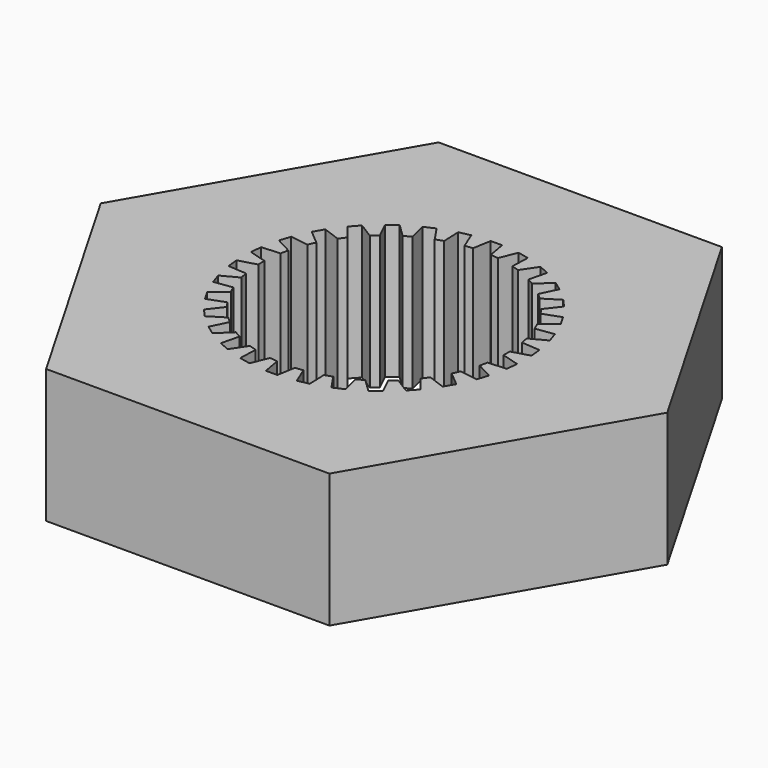
from build123d import *

# Parameters (mm, degrees)
F1_DEPTH = 3


with BuildPart() as f1:
    # F0 (on Top) → F1 (new body)
    with BuildSketch(Plane.XY):
        Polygon((3.175426, 5.5), (-3.175426, 5.5), (-6.350853, 0), (-3.175426, -5.5), (3.175426, -5.5), (6.350853, 0), align=None)
        with BuildLine():
            ThreePointArc((2.748598, 0.087788), (2.74965, 0.043899), (2.75, 0))
            ThreePointArc((2.75, 0), (2.749649, -0.043966), (2.748594, -0.08792))
            Line((2.748594, -0.08792), (3.146129, -0.201912))
            Line((3.146129, -0.201912), (3.119345, -0.456748))
            Line((3.119345, -0.456748), (2.706787, -0.485596))
            ThreePointArc((2.706787, -0.485596), (2.689892, -0.571822), (2.670251, -0.657464))
            Line((2.670251, -0.657464), (3.035399, -0.851616))
            Line((3.035399, -0.851616), (2.956217, -1.095315))
            Line((2.956217, -1.095315), (2.546676, -1.037758))
            ThreePointArc((2.546676, -1.037758), (2.512223, -1.118586), (2.475205, -1.198273))
            Line((2.475205, -1.198273), (2.792007, -1.464102))
            Line((2.792007, -1.464102), (2.663887, -1.686012))
            Line((2.663887, -1.686012), (2.275263, -1.544564))
            ThreePointArc((2.275263, -1.544564), (2.224758, -1.616463), (2.171981, -1.686712))
            Line((2.171981, -1.686712), (2.426591, -2.012598))
            Line((2.426591, -2.012598), (2.255134, -2.203022))
            Line((2.255134, -2.203022), (1.90441, -1.983865))
            ThreePointArc((1.90441, -1.983865), (1.84006, -2.043693), (1.773831, -2.101434))
            Line((1.773831, -2.101434), (1.955122, -2.473135))
            Line((1.955122, -2.473135), (1.74782, -2.623749))
            Line((1.74782, -2.623749), (1.450326, -2.336462))
            ThreePointArc((1.450326, -2.336462), (1.374943, -2.381603), (1.298156, -2.424313))
            Line((1.298156, -2.424313), (1.398204, -2.825584))
            Line((1.398204, -2.825584), (1.164117, -2.929806))
            Line((1.164117, -2.929806), (0.932855, -2.586945))
            ThreePointArc((0.932855, -2.586945), (0.849734, -2.615426), (0.765745, -2.641237))
            Line((0.765745, -2.641237), (0.780178, -3.054541))
            Line((0.780178, -3.054541), (0.529538, -3.107816))
            Line((0.529538, -3.107816), (0.374614, -2.724365))
            ThreePointArc((0.374614, -2.724365), (0.287387, -2.734942), (0.199868, -2.742727))
            Line((0.199868, -2.742727), (0.128055, -3.15))
            Line((0.128055, -3.15), (-0.128185, -3.15))
            Line((-0.128185, -3.15), (-0.2, -2.742718))
            ThreePointArc((-0.2, -2.742718), (-0.287519, -2.734928), (-0.374745, -2.724347))
            Line((-0.374745, -2.724347), (-0.529666, -3.107789))
            Line((-0.529666, -3.107789), (-0.780306, -3.054514))
            Line((-0.780306, -3.054514), (-0.765873, -2.6412))
            ThreePointArc((-0.765873, -2.6412), (-0.84986, -2.615385), (-0.932979, -2.5869))
            Line((-0.932979, -2.5869), (-1.164237, -2.929753))
            Line((-1.164237, -2.929753), (-1.398323, -2.825531))
            Line((-1.398323, -2.825531), (-1.298273, -2.42425))
            ThreePointArc((-1.298273, -2.42425), (-1.375057, -2.381537), (-1.450438, -2.336392))
            Line((-1.450438, -2.336392), (-1.747925, -2.623672))
            Line((-1.747925, -2.623672), (-1.955227, -2.473058))
            Line((-1.955227, -2.473058), (-1.773932, -2.101348))
            ThreePointArc((-1.773932, -2.101348), (-1.840158, -2.043604), (-1.904506, -1.983773))
            Line((-1.904506, -1.983773), (-2.255221, -2.202924))
            Line((-2.255221, -2.202924), (-2.426679, -2.012501))
            Line((-2.426679, -2.012501), (-2.172063, -1.686607))
            ThreePointArc((-2.172063, -1.686607), (-2.224836, -1.616356), (-2.275338, -1.544454))
            Line((-2.275338, -1.544454), (-2.663953, -1.685898))
            Line((-2.663953, -1.685898), (-2.792073, -1.463988))
            Line((-2.792073, -1.463988), (-2.475263, -1.198154))
            ThreePointArc((-2.475263, -1.198154), (-2.512277, -1.118465), (-2.546726, -1.037635))
            Line((-2.546726, -1.037635), (-2.956257, -1.095191))
            Line((-2.956257, -1.095191), (-3.035439, -0.851492))
            Line((-3.035439, -0.851492), (-2.670283, -0.657335))
            ThreePointArc((-2.670283, -0.657335), (-2.68992, -0.571692), (-2.70681, -0.485466))
            Line((-2.70681, -0.485466), (-3.119359, -0.456618))
            Line((-3.119359, -0.456618), (-3.146143, -0.201782))
            Line((-3.146143, -0.201782), (-2.748598, -0.087788))
            ThreePointArc((-2.748598, -0.087788), (-2.75, 6.6e-05), (-2.748594, 0.08792))
            Line((-2.748594, 0.08792), (-3.146129, 0.201912))
            Line((-3.146129, 0.201912), (-3.119345, 0.456748))
            Line((-3.119345, 0.456748), (-2.706787, 0.485596))
            ThreePointArc((-2.706787, 0.485596), (-2.689892, 0.571822), (-2.670251, 0.657464))
            Line((-2.670251, 0.657464), (-3.035399, 0.851616))
            Line((-3.035399, 0.851616), (-2.956217, 1.095315))
            Line((-2.956217, 1.095315), (-2.546676, 1.037758))
            ThreePointArc((-2.546676, 1.037758), (-2.512223, 1.118586), (-2.475205, 1.198273))
            Line((-2.475205, 1.198273), (-2.792007, 1.464102))
            Line((-2.792007, 1.464102), (-2.663887, 1.686012))
            Line((-2.663887, 1.686012), (-2.275263, 1.544564))
            ThreePointArc((-2.275263, 1.544564), (-2.224758, 1.616463), (-2.171981, 1.686712))
            Line((-2.171981, 1.686712), (-2.426591, 2.012598))
            Line((-2.426591, 2.012598), (-2.255134, 2.203022))
            Line((-2.255134, 2.203022), (-1.90441, 1.983865))
            ThreePointArc((-1.90441, 1.983865), (-1.84006, 2.043693), (-1.773831, 2.101434))
            Line((-1.773831, 2.101434), (-1.955122, 2.473135))
            Line((-1.955122, 2.473135), (-1.74782, 2.623749))
            Line((-1.74782, 2.623749), (-1.450326, 2.336462))
            ThreePointArc((-1.450326, 2.336462), (-1.374943, 2.381603), (-1.298156, 2.424313))
            Line((-1.298156, 2.424313), (-1.398204, 2.825584))
            Line((-1.398204, 2.825584), (-1.164117, 2.929806))
            Line((-1.164117, 2.929806), (-0.932855, 2.586945))
            ThreePointArc((-0.932855, 2.586945), (-0.849734, 2.615426), (-0.765745, 2.641237))
            Line((-0.765745, 2.641237), (-0.780178, 3.054541))
            Line((-0.780178, 3.054541), (-0.529538, 3.107816))
            Line((-0.529538, 3.107816), (-0.374614, 2.724365))
            ThreePointArc((-0.374614, 2.724365), (-0.287387, 2.734942), (-0.199868, 2.742727))
            Line((-0.199868, 2.742727), (-0.128055, 3.15))
            Line((-0.128055, 3.15), (0.128185, 3.15))
            Line((0.128185, 3.15), (0.2, 2.742718))
            ThreePointArc((0.2, 2.742718), (0.287519, 2.734928), (0.374745, 2.724347))
            Line((0.374745, 2.724347), (0.529666, 3.107789))
            Line((0.529666, 3.107789), (0.780306, 3.054514))
            Line((0.780306, 3.054514), (0.765873, 2.6412))
            ThreePointArc((0.765873, 2.6412), (0.84986, 2.615385), (0.932979, 2.5869))
            Line((0.932979, 2.5869), (1.164237, 2.929753))
            Line((1.164237, 2.929753), (1.398323, 2.825531))
            Line((1.398323, 2.825531), (1.298273, 2.42425))
            ThreePointArc((1.298273, 2.42425), (1.375057, 2.381537), (1.450438, 2.336392))
            Line((1.450438, 2.336392), (1.747925, 2.623672))
            Line((1.747925, 2.623672), (1.955227, 2.473058))
            Line((1.955227, 2.473058), (1.773932, 2.101348))
            ThreePointArc((1.773932, 2.101348), (1.840158, 2.043604), (1.904506, 1.983773))
            Line((1.904506, 1.983773), (2.255221, 2.202924))
            Line((2.255221, 2.202924), (2.426679, 2.012501))
            Line((2.426679, 2.012501), (2.172063, 1.686607))
            ThreePointArc((2.172063, 1.686607), (2.224836, 1.616356), (2.275338, 1.544454))
            Line((2.275338, 1.544454), (2.663953, 1.685898))
            Line((2.663953, 1.685898), (2.792073, 1.463988))
            Line((2.792073, 1.463988), (2.475263, 1.198154))
            ThreePointArc((2.475263, 1.198154), (2.512277, 1.118465), (2.546726, 1.037635))
            Line((2.546726, 1.037635), (2.956257, 1.095191))
            Line((2.956257, 1.095191), (3.035439, 0.851492))
            Line((3.035439, 0.851492), (2.670283, 0.657335))
            ThreePointArc((2.670283, 0.657335), (2.68992, 0.571692), (2.70681, 0.485466))
            Line((2.70681, 0.485466), (3.119359, 0.456618))
            Line((3.119359, 0.456618), (3.146143, 0.201782))
            Line((3.146143, 0.201782), (2.748598, 0.087788))
        make_face(mode=Mode.SUBTRACT)
    extrude(amount=F1_DEPTH)


solid = f1.part
